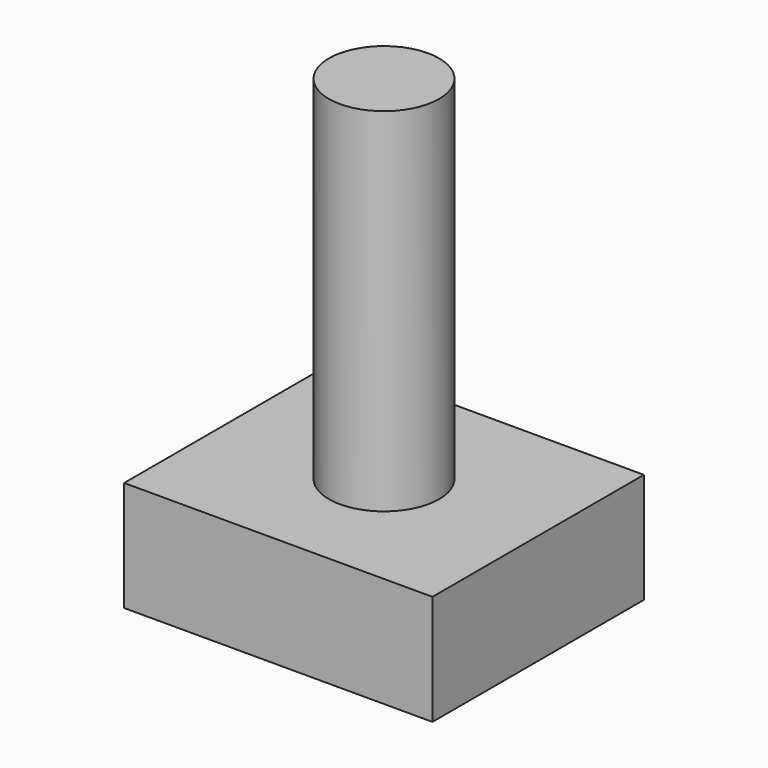
from build123d import *

# Parameters (mm, degrees)
F0_W     = 70
F0_H     = 60
F0_R     = 12.5
F1_DEPTH = 25
F2_R     = 12.5
F3_DEPTH = 80


with BuildPart() as f1:
    # F0 (on Top) → F1 (new body)
    with BuildSketch(Plane.XY):
        Rectangle(F0_W, F0_H)
        Circle(F0_R, mode=Mode.SUBTRACT)
    extrude(amount=-F1_DEPTH)


with BuildPart() as f3:
    # F2 (on face) → F3 (new body)
    with BuildSketch(Plane.XY):
        Circle(F2_R)
    extrude(amount=F3_DEPTH)


solid = Compound([f1.part, f3.part])
